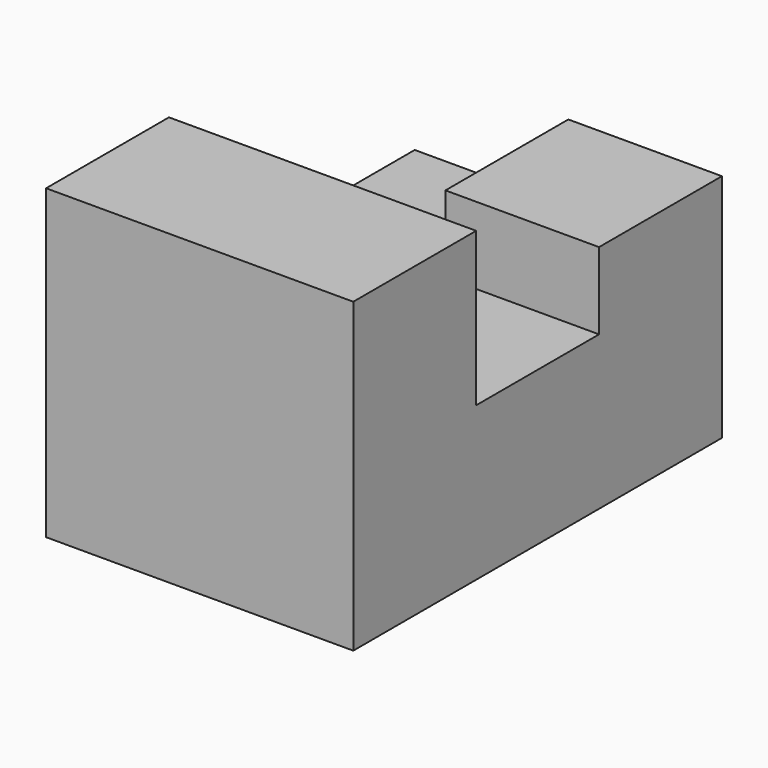
from build123d import *

# Parameters (mm, degrees)
F2_DEPTH = 25.4
F1_W     = 12.7
F1_H     = 6.35
F3_DEPTH = 12.7


with BuildPart() as f2:
    # F0 (on Right) → F2 (new body)
    with BuildSketch(Plane.YZ):
        Polygon((-25.4, 25.4), (-38.1, 25.4), (-38.1, 0), (0, 0), (0, 12.7), (-25.4, 12.7), align=None)
    extrude(amount=-F2_DEPTH)

    # F1 (on Right) → F3 (join)
    with BuildSketch(Plane.YZ):
        with Locations((-6.35, 15.875)):
            Rectangle(F1_W, F1_H)
    extrude(amount=-F3_DEPTH)


solid = f2.part
